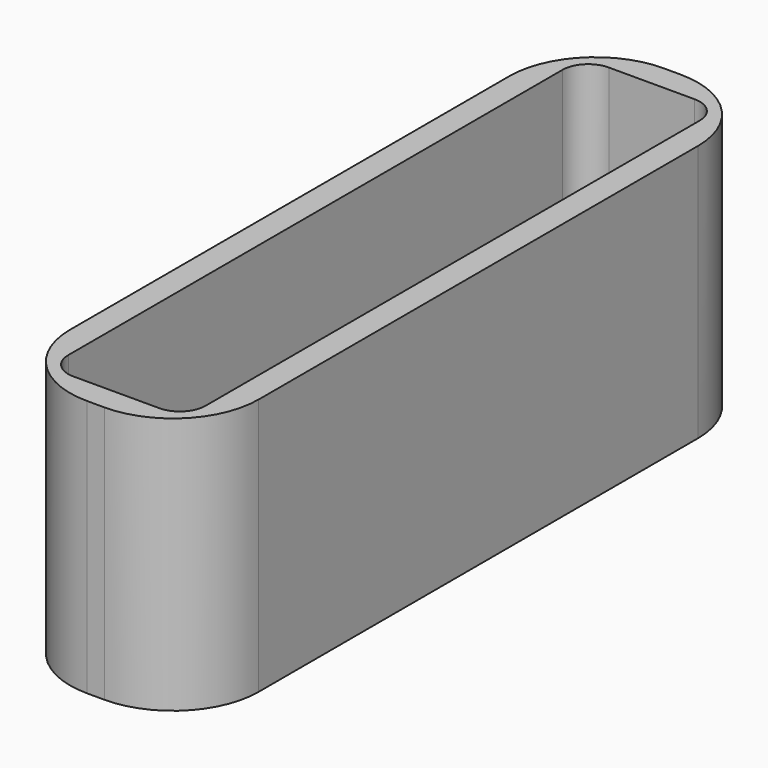
from build123d import *

# Parameters (mm, degrees)
PAD_DEPTH = 15


with BuildPart() as part:
    # Sketch → Pad (new body)
    with BuildSketch(Plane.XY):
        with BuildLine():
            Line((5, 0), (6, 0))
            ThreePointArc((6, 0), (9.535534, 1.464466), (11, 5))
            Line((11, 5), (11, 37))
            ThreePointArc((11, 37), (9.535534, 40.535534), (6, 42))
            Line((6, 42), (5, 42))
            ThreePointArc((5, 42), (1.464466, 40.535534), (0, 37))
            Line((0, 37), (0, 5))
            ThreePointArc((0, 5), (1.464466, 1.464466), (5, 0))
        make_face()
        with BuildLine():
            Line((3, 1.5), (8, 1.5))
            ThreePointArc((8, 1.5), (9.06066, 1.93934), (9.5, 3))
            Line((9.5, 3), (9.5, 39))
            ThreePointArc((9.5, 39), (9.06066, 40.06066), (8, 40.5))
            Line((8, 40.5), (3, 40.5))
            ThreePointArc((3, 40.5), (1.93934, 40.06066), (1.5, 39))
            Line((1.5, 39), (1.5, 3))
            ThreePointArc((1.5, 3), (1.93934, 1.93934), (3, 1.5))
        make_face(mode=Mode.SUBTRACT)
    extrude(amount=PAD_DEPTH)


solid = part.part
